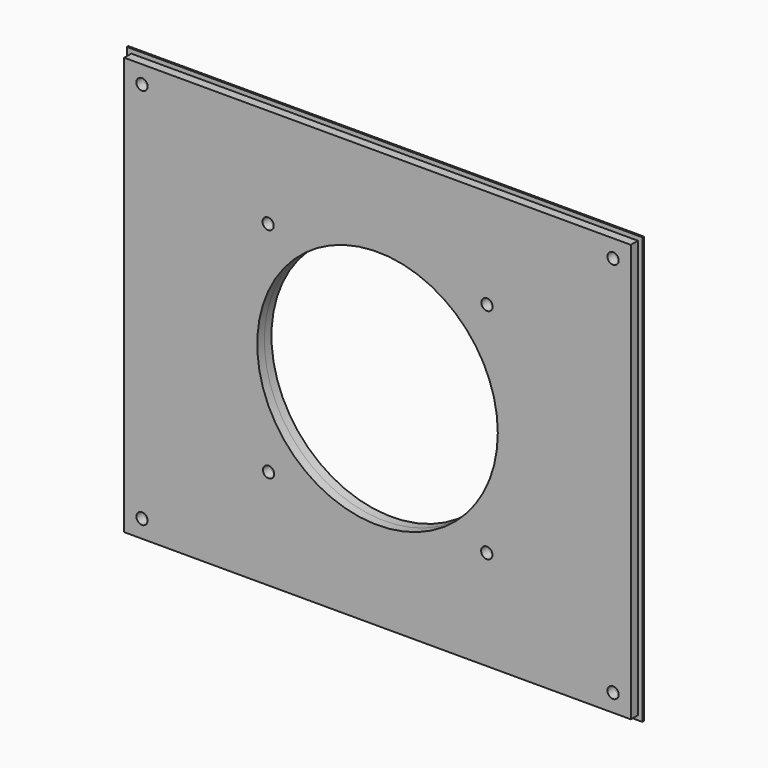
from build123d import *

# Parameters (mm, degrees)
F0_W     = 361.95
F0_H     = 298.45
F0_R     = 4.015807
F0_R_2   = 85.938782
F1_DEPTH = 6.35
F0_W_2   = 368.3
F0_H_2   = 304.8
F2_DEPTH = 6.35
F3_SIZE  = 5.08


with BuildPart() as f1:
    # F0 (on Front) → F1 (new body)
    with BuildSketch(Plane.XZ):
        Rectangle(F0_W, F0_H)
        with Locations((-168.275, -136.525)):
            Circle(F0_R, mode=Mode.SUBTRACT)
        with Locations((-77.845052, -77.818841)):
            Circle(F0_R, mode=Mode.SUBTRACT)
        with Locations((78.0682, -77.987373)):
            Circle(F0_R, mode=Mode.SUBTRACT)
        with Locations((168.275, -136.525)):
            Circle(F0_R, mode=Mode.SUBTRACT)
        with Locations((-168.275, 136.525)):
            Circle(F0_R, mode=Mode.SUBTRACT)
        with Locations((-78.153893, 78.204393)):
            Circle(F0_R, mode=Mode.SUBTRACT)
        Circle(F0_R_2, mode=Mode.SUBTRACT)
        with Locations((78.220673, 78.21884)):
            Circle(F0_R, mode=Mode.SUBTRACT)
        with Locations((168.275, 136.525)):
            Circle(F0_R, mode=Mode.SUBTRACT)
    extrude(amount=F1_DEPTH)


with BuildPart() as f2:
    # F0 (on Front) → F2 (new body)
    with BuildSketch(Plane.XZ):
        Rectangle(F0_W_2, F0_H_2)
        Rectangle(F0_W, F0_H, mode=Mode.SUBTRACT)
        Rectangle(F0_W, F0_H)
        with Locations((-168.275, -136.525)):
            Circle(F0_R, mode=Mode.SUBTRACT)
        with Locations((-77.845052, -77.818841)):
            Circle(F0_R, mode=Mode.SUBTRACT)
        with Locations((78.0682, -77.987373)):
            Circle(F0_R, mode=Mode.SUBTRACT)
        with Locations((168.275, -136.525)):
            Circle(F0_R, mode=Mode.SUBTRACT)
        with Locations((-168.275, 136.525)):
            Circle(F0_R, mode=Mode.SUBTRACT)
        with Locations((-78.153893, 78.204393)):
            Circle(F0_R, mode=Mode.SUBTRACT)
        Circle(F0_R_2, mode=Mode.SUBTRACT)
        with Locations((78.220673, 78.21884)):
            Circle(F0_R, mode=Mode.SUBTRACT)
        with Locations((168.275, 136.525)):
            Circle(F0_R, mode=Mode.SUBTRACT)
    extrude(amount=-F2_DEPTH)

    # F3
    f3_edges = [f2.edges().sort_by_distance(p)[0] for p in [
        (184.15, 6.35, 0),
        (0, 6.35, 152.4),
        (0, 6.35, -152.4),
        (-184.15, 6.35, 0),
    ]]
    chamfer(f3_edges, length=F3_SIZE)


solid = Compound([f1.part, f2.part])
